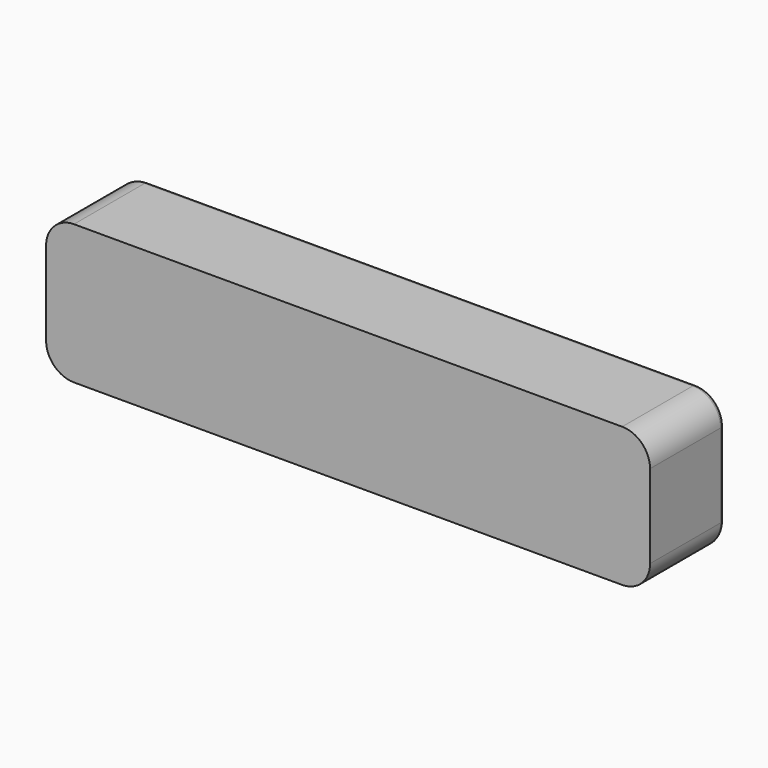
from build123d import *

# Parameters (mm, degrees)
PAD001_DEPTH            = 10
BODY001_PLACEMENT_ANGLE = 90
PAD003_DEPTH            = 10
BODY003_PLACEMENT_ANGLE = 270
BOX005_W                = 32.52
BOX005_H                = 5
BOX005_DEPTH            = 7.5
FILLET002_R             = 1.5
FILLET003_R             = 0.25


with BuildPart() as body001:
    # Sketch001 → Pad001 (new body)
    with BuildSketch(Plane.XZ):
        with BuildLine():
            Line((-0.253994, 6.623128), (-3.180974, -6.757813))
            ThreePointArc((-3.180974, -6.757813), (-3.12952, -6.976398), (-2.926979, -7.073373))
            Line((-2.926979, -7.073373), (2.926979, -7.073373))
            ThreePointArc((2.926979, -7.073373), (3.12952, -6.976398), (3.180974, -6.757813))
            Line((3.180974, -6.757813), (0.253994, 6.623128))
            ThreePointArc((0.253994, 6.623128), (0, 6.827569), (-0.253994, 6.623128))
        make_face()
    extrude(amount=PAD001_DEPTH)


with BuildPart() as body001_1:
    # Body001 placement: moved
    add(body001.part.moved(Location((27.1, 63, -8))).rotate(Axis((27.1, 63, -8), (0, 1, 0)), BODY001_PLACEMENT_ANGLE))


with BuildPart() as wedge_holes:
    # Sketch003 → Pad003 (new body)
    with BuildSketch(Plane.XZ):
        with BuildLine():
            Line((-0.253994, 6.623128), (-3.180974, -6.757813))
            ThreePointArc((-3.180974, -6.757813), (-3.12952, -6.976398), (-2.926979, -7.073373))
            Line((-2.926979, -7.073373), (2.926979, -7.073373))
            ThreePointArc((2.926979, -7.073373), (3.12952, -6.976398), (3.180974, -6.757813))
            Line((3.180974, -6.757813), (0.253994, 6.623128))
            ThreePointArc((0.253994, 6.623128), (0, 6.827569), (-0.253994, 6.623128))
        make_face()
    extrude(amount=PAD003_DEPTH)


with BuildPart() as wedge_holes_1:
    # Body003 placement: moved
    add(wedge_holes.part.moved(Location((10.9, 63, -8))).rotate(Axis((10.9, 63, -8), (0, 1, 0)), BODY003_PLACEMENT_ANGLE))

    # Fusion003: union Body001
    add(body001_1.part)


with BuildPart() as wedge_holes_2:
    # Fusion003 placement: moved
    add(wedge_holes_1.part.moved(Location((0, -25, 0))))


with BuildPart() as obj1:
    # Box005 → Box005 (new body)
    with BuildSketch(Plane(origin=(2.75, 25, -11.75), x_dir=(1, 0, 0), z_dir=(0, 0, 1))):
        with Locations((16.26, 2.5)):
            Rectangle(BOX005_W, BOX005_H)
    extrude(amount=BOX005_DEPTH)

    # Fillet002
    fillet002_edges = [obj1.edges().sort_by_distance(p)[0] for p in [
        (2.75, 27.5, -4.25),
        (2.75, 27.5, -11.75),
        (35.27, 27.5, -4.25),
        (35.27, 27.5, -11.75),
    ]]
    fillet(fillet002_edges, radius=FILLET002_R)

    # Cut003: cut wedge holes
    add(wedge_holes_2.part, mode=Mode.SUBTRACT)

    # Fillet003
    fillet003_edges = [obj1.edges().sort_by_distance(p)[0] for p in [
        (2.75, 30, -8),
        (3.18934, 30, -11.31066),
        (19.01, 30, -11.75),
        (34.83066, 30, -11.31066),
        (35.27, 30, -8),
        (3.18934, 30, -4.68934),
        (34.83066, 30, -4.68934),
        (19.01, 30, -4.25),
        (4.072431, 30, -8),
        (10.967343, 30, -6.282516),
        (17.876398, 30, -4.87048),
        (17.973373, 30, -8),
        (17.876398, 30, -11.12952),
        (10.967343, 30, -9.717484),
        (33.927569, 30, -8),
        (27.032657, 30, -9.717484),
        (20.123602, 30, -11.12952),
        (20.026627, 30, -8),
        (20.123602, 30, -4.87048),
        (27.032657, 30, -6.282516),
    ]]
    fillet(fillet003_edges, radius=FILLET003_R)


solid = obj1.part
